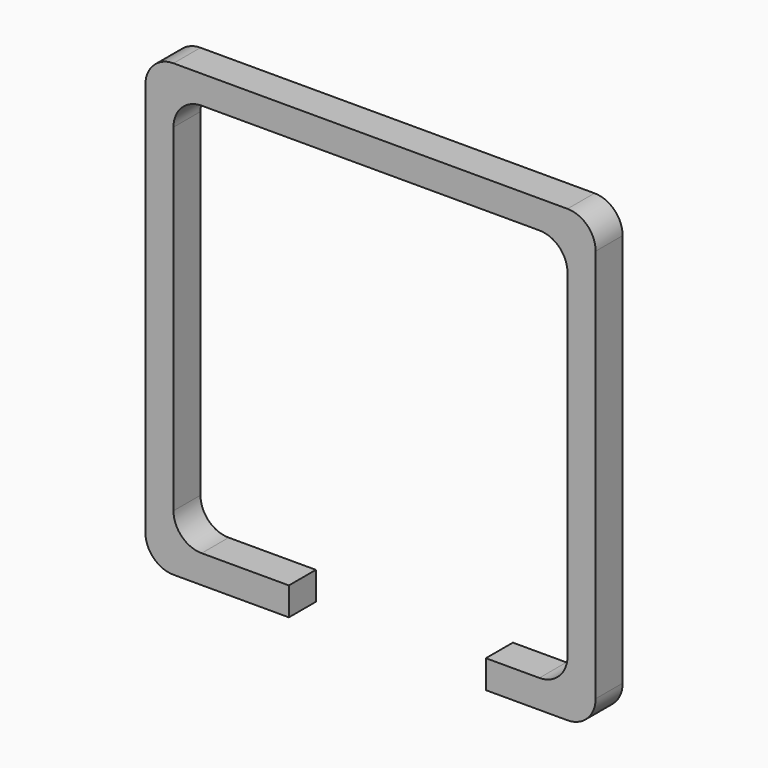
from build123d import *

# Parameters (mm, degrees)
F1_DEPTH = 6


with BuildPart() as f1:
    # F0 (on Front) → F1 (new body)
    with BuildSketch(Plane.XZ):
        with BuildLine():
            Line((-19.5, 0), (-5, 0))
            ThreePointArc((-5, 0), (-1.464466, 1.464466), (0, 5))
            Line((0, 5), (0, 75))
            ThreePointArc((0, 75), (-1.464466, 78.535534), (-5, 80))
            Line((-5, 80), (-75, 80))
            ThreePointArc((-75, 80), (-78.535534, 78.535534), (-80, 75))
            Line((-80, 75), (-80, 5))
            ThreePointArc((-80, 5), (-78.535534, 1.464466), (-75, 0))
            Line((-75, 0), (-54.5, 0))
            Line((-54.5, 0), (-54.5, 5))
            Line((-54.5, 5), (-70, 5))
            ThreePointArc((-70, 5), (-73.535534, 6.464466), (-75, 10))
            Line((-75, 10), (-75, 70))
            ThreePointArc((-75, 70), (-73.535534, 73.535534), (-70, 75))
            Line((-70, 75), (-10, 75))
            ThreePointArc((-10, 75), (-6.464466, 73.535534), (-5, 70))
            Line((-5, 70), (-5, 10))
            ThreePointArc((-5, 10), (-6.464466, 6.464466), (-10, 5))
            Line((-10, 5), (-19.5, 5))
            Line((-19.5, 5), (-19.5, 0))
        make_face()
    extrude(amount=F1_DEPTH)


solid = f1.part
